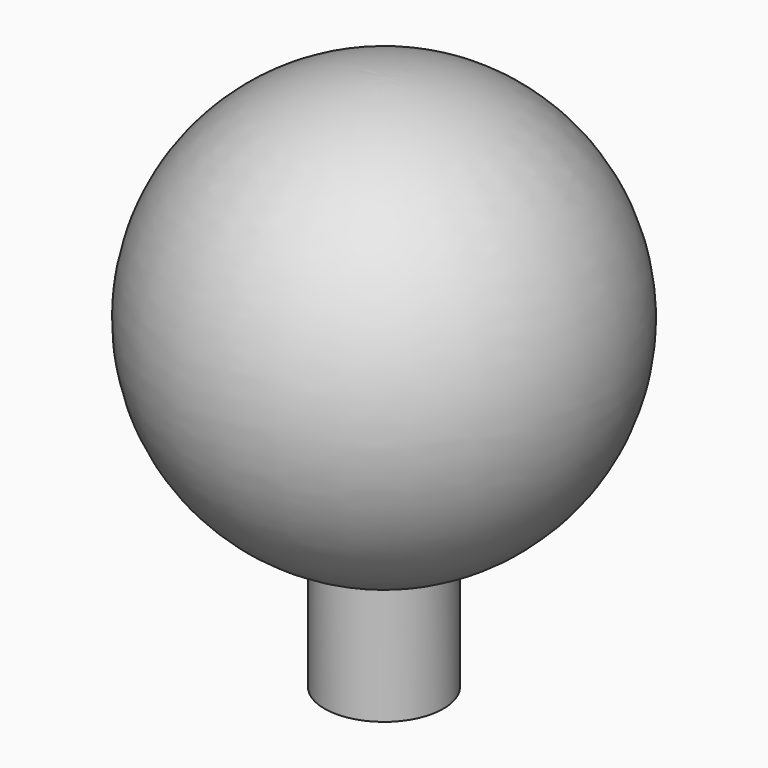
from build123d import *


with BuildPart() as f1:
    # F0 (on Front) → F1 (revolve)
    with BuildSketch(Plane.XZ):
        with BuildLine():
            Line((0, -10.702056), (0, 7))
            ThreePointArc((0, 7), (-6.929707, 0.989524), (-1.959175, -6.720241))
            Line((-1.959175, -6.720241), (-1.959175, -10.702056))
            Line((-1.959175, -10.702056), (0, -10.702056))
        make_face()
    revolve(axis=Axis((0, 0, -1.893868), (0, 0, 1)))


solid = f1.part
